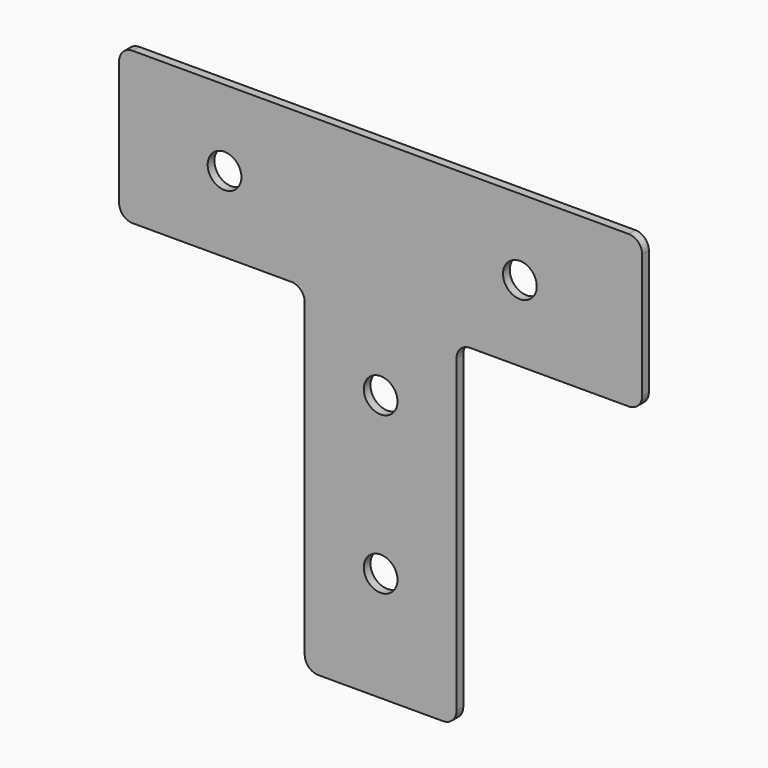
from build123d import *

# Parameters (mm, degrees)
F1_DEPTH = 2.5
F2_R     = 5
F3_DEPTH = 2.501


with BuildPart() as f1:
    # F0 (on Front) → F1 (new body)
    with BuildSketch(Plane.XZ):
        with BuildLine():
            ThreePointArc((77.5, 18.5), (76.328427, 21.328427), (73.5, 22.5))
            Line((73.5, 22.5), (-73.5, 22.5))
            ThreePointArc((-73.5, 22.5), (-76.328427, 21.328427), (-77.5, 18.5))
            Line((-77.5, 18.5), (-77.5, -18.5))
            ThreePointArc((-77.5, -18.5), (-76.328427, -21.328427), (-73.5, -22.5))
            Line((-73.5, -22.5), (-26.5, -22.5))
            ThreePointArc((-26.5, -22.5), (-23.671573, -23.671573), (-22.5, -26.5))
            Line((-22.5, -26.5), (-22.5, -118.5))
            ThreePointArc((-22.5, -118.5), (-21.328427, -121.328427), (-18.5, -122.5))
            Line((-18.5, -122.5), (18.5, -122.5))
            ThreePointArc((18.5, -122.5), (21.328427, -121.328427), (22.5, -118.5))
            Line((22.5, -118.5), (22.5, -26.5))
            ThreePointArc((22.5, -26.5), (23.671573, -23.671573), (26.5, -22.5))
            Line((26.5, -22.5), (73.5, -22.5))
            ThreePointArc((73.5, -22.5), (76.328427, -21.328427), (77.5, -18.5))
            Line((77.5, -18.5), (77.5, 18.5))
        make_face()
    extrude(amount=F1_DEPTH)

    # F2 (on face) → F3 (cut, through all)
    with BuildSketch(Plane.XZ.offset(2.5)):
        with Locations((-46.26672, 0)):
            Circle(F2_R)
        with Locations((41.27989, 0)):
            Circle(F2_R)
        with Locations((0, -43.496259)):
            Circle(F2_R)
        with Locations((0, -90.040021)):
            Circle(F2_R)
    extrude(amount=-F3_DEPTH, mode=Mode.SUBTRACT)


solid = f1.part
